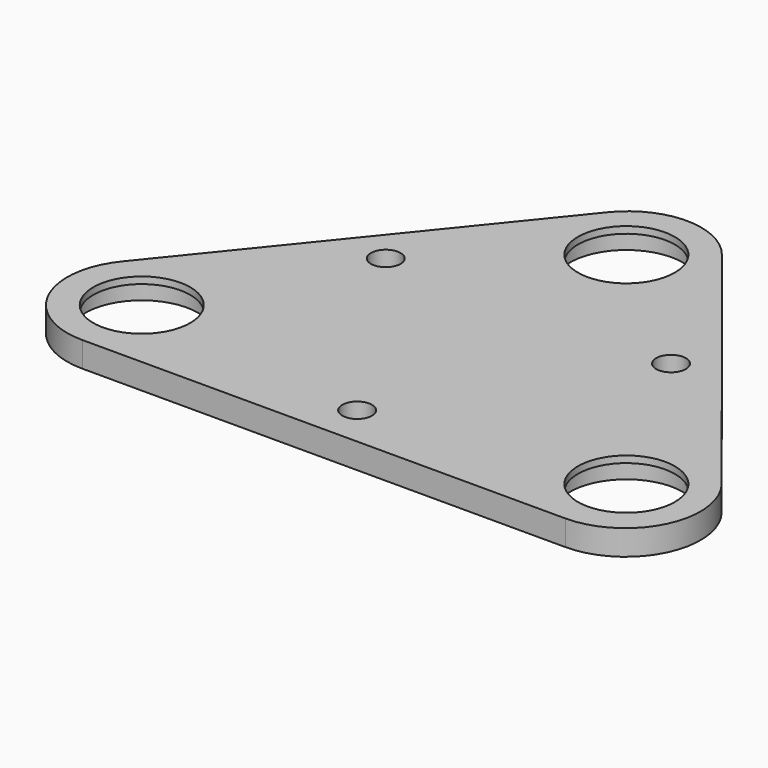
from build123d import *

# Parameters (mm, degrees)
CYLINDER001_R     = 8.4
CYLINDER001_DEPTH = 5.5
CYLINDER004_R     = 7.2
CYLINDER004_DEPTH = 6.5
CYLINDER003_R     = 10.4
CYLINDER003_DEPTH = 1
CYLINDER002_R     = 10.4
CYLINDER002_DEPTH = 2.75
SKETCH013_R       = 9.6
SKETCH013_R_2     = 2.2
PAD011_DEPTH      = 3.75


with BuildPart() as bearing_holder_extract:
    # Cylinder001 → Cylinder001 (new body)
    with BuildSketch(Plane.XY):
        Circle(CYLINDER001_R)
    extrude(amount=CYLINDER001_DEPTH)


with BuildPart() as bearing_holder_extract_fusion:
    # Cylinder004 → Cylinder004 (new body)
    with BuildSketch(Plane.XY.offset(-1)):
        Circle(CYLINDER004_R)
    extrude(amount=CYLINDER004_DEPTH)

    # Fusion001: union bearing holder extract
    add(bearing_holder_extract.part)


with BuildPart() as bearing_holder_disk:
    # Cylinder003 → Cylinder003 (new body)
    with BuildSketch(Plane.XY.offset(-1)):
        Circle(CYLINDER003_R)
    extrude(amount=CYLINDER003_DEPTH)


with BuildPart() as bearing_holder_body:
    # Cylinder002 → Cylinder002 (new body)
    with BuildSketch(Plane.XY):
        Circle(CYLINDER002_R)
    extrude(amount=CYLINDER002_DEPTH)

    # Fusion002: union bearing holder disk
    add(bearing_holder_disk.part)

    # Cut003: cut bearing holder extract fusion
    add(bearing_holder_extract_fusion.part, mode=Mode.SUBTRACT)


with BuildPart() as bearing_holder_body_1:
    # Cut003 placement: moved
    add(bearing_holder_body.part.moved(Location((0, 0, 1))))


with BuildPart() as bearing_holder_body_clone:
    # Body009 base: copy of bearing holder body
    add(bearing_holder_body_1.part)


with BuildPart() as bearing_holder_body_clone_1:
    # Clone002 placement: moved
    add(bearing_holder_body_clone.part.moved(Location((0, 0, -1))))


with BuildPart() as bearing_holder_body_clone_2:
    # Body009 placement: moved
    add(bearing_holder_body_clone_1.part.moved(Location((10, 25, 1))))


with BuildPart() as bearing_holder_body_clone001:
    # Body010 base: copy of bearing holder body
    add(bearing_holder_body_1.part)


with BuildPart() as bearing_holder_body_clone001_1:
    # Clone003 placement: moved
    add(bearing_holder_body_clone001.part.moved(Location((0, 0, -1))))


with BuildPart() as bearing_holder_body_clone001_2:
    # Body010 placement: moved
    add(bearing_holder_body_clone001_1.part.moved(Location((-26, -20, 1))))


with BuildPart() as bearing_holder_body_clone002:
    # Body011 base: copy of bearing holder body
    add(bearing_holder_body_1.part)


with BuildPart() as bearing_holder_body_clone002_1:
    # Clone004 placement: moved
    add(bearing_holder_body_clone002.part.moved(Location((0, 0, -1))))


with BuildPart() as bearing_holder_body_clone002_2:
    # Body011 placement: moved
    add(bearing_holder_body_clone002_1.part.moved(Location((46, -20, 1))))


with BuildPart() as top_bearing_plate_fusion:
    # Sketch013 → Pad011 (new body)
    with BuildSketch(Plane.XY):
        with BuildLine():
            Line((1.646601, 32.001411), (-34.644004, -12.858892))
            ThreePointArc((-34.644004, -12.858892), (-36.048496, -24.763041), (-25.91021, -31.158079))
            Line((-25.91021, -31.158079), (45.861431, -31.158079))
            ThreePointArc((45.861431, -31.158079), (55.920577, -24.833853), (54.581009, -13.027591))
            Line((54.581009, -13.027591), (18.635324, 31.950884))
            ThreePointArc((18.635324, 31.950884), (10.153066, 36.045837), (1.646601, 32.001411))
        make_face()
        with Locations((-25.91021, -19.924263)):
            Circle(SKETCH013_R, mode=Mode.SUBTRACT)
        with Locations((10.120649, 25.146166)):
            Circle(SKETCH013_R, mode=Mode.SUBTRACT)
        with Locations((45.861431, -19.996062)):
            Circle(SKETCH013_R, mode=Mode.SUBTRACT)
        with Locations((-11.219142, 6.834813)):
            Circle(SKETCH013_R_2, mode=Mode.SUBTRACT)
        with Locations((10.016696, -25.022005)):
            Circle(SKETCH013_R_2, mode=Mode.SUBTRACT)
        with Locations((31.129337, 6.879182)):
            Circle(SKETCH013_R_2, mode=Mode.SUBTRACT)
    extrude(amount=PAD011_DEPTH)

    # Fusion003: union bearing holder body clone, bearing holder body clone001, bearing holder body clone002
    add(bearing_holder_body_clone_2.part)
    add(bearing_holder_body_clone001_2.part)
    add(bearing_holder_body_clone002_2.part)


with BuildPart() as part_mirroring001:
    # Part__Mirroring001: instance of top bearing plate fusion
    add(top_bearing_plate_fusion.part.mirror(Plane(origin=(0, 0, 0), x_dir=(0, 1, 0), z_dir=(0, 0, 1))))


solid = part_mirroring001.part
